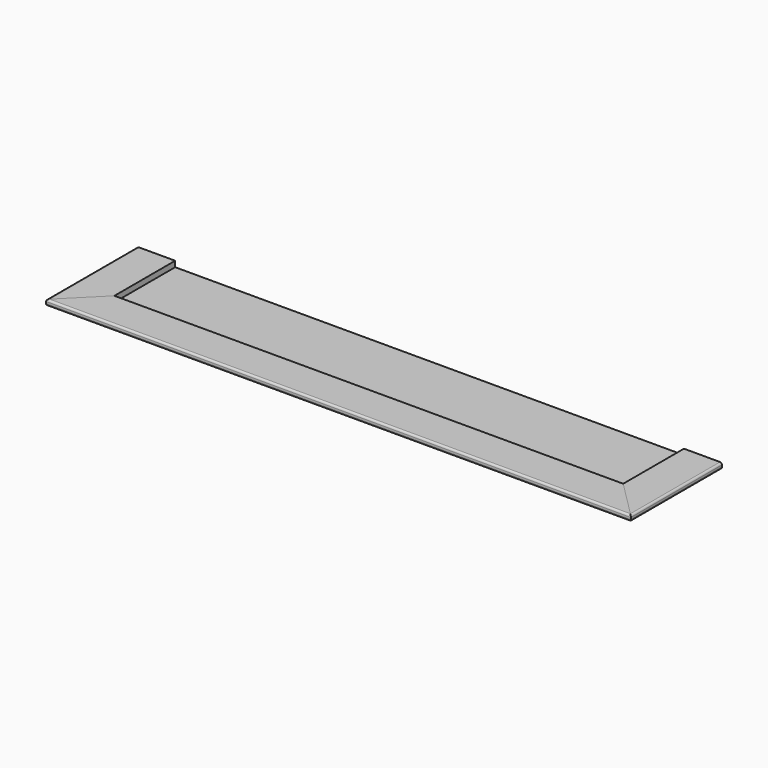
from build123d import *

# Parameters (mm, degrees)
F0_W      = 1828.8
F0_H      = 298.45
F1_DEPTH  = 19.05
F2_W      = 9.525
F2_H      = 9.525
F3_DEPTH  = 1828.801
F4_W      = 19.05
F4_H      = 9.525
F5_DEPTH  = 298.451
F7_DEPTH  = 19.05
F9_DEPTH  = 19.05
F11_DEPTH = 19.05
F12_R     = 6.35
F12_2_R   = 6.35
F12_3_R   = 6.35
F13_R     = 3.175


with BuildPart() as f1:
    # F0 (on Top) → F1 (new body)
    with BuildSketch(Plane.XY):
        Rectangle(F0_W, F0_H)
    extrude(amount=F1_DEPTH)

    # F2 (on face) → F3 (cut, through all)
    with BuildSketch(Plane.YZ.offset(914.4)):
        with Locations((144.4625, 4.7625)):
            Rectangle(F2_W, F2_H)
    extrude(amount=-F3_DEPTH, mode=Mode.SUBTRACT)

    # F4 (on face) → F5 (cut, through all)
    with BuildSketch(Plane.XZ.offset(149.225)):
        with Locations((-904.875, 4.7625)):
            Rectangle(F4_W, F4_H)
        with Locations((904.875, 4.7625)):
            Rectangle(F4_W, F4_H)
        with Locations((0, 4.7625)):
            Rectangle(F4_W, F4_H)
    extrude(amount=-F5_DEPTH, mode=Mode.SUBTRACT)

    # F13
    f13_edges = [f1.edges().sort_by_distance(p)[0] for p in [
        (-914.4, 0, 19.05),
        (914.4, 0, 19.05),
    ]]
    fillet(f13_edges, radius=F13_R)


with BuildPart() as f7:
    # F6 (on face) → F7 (new body)
    with BuildSketch(Plane.XY.offset(19.05)):
        Polygon((850.9, -104.775), (-850.9, -104.775), (-977.9, -231.775), (977.9, -231.775), align=None)
    extrude(amount=F7_DEPTH)

    # F12
    f12_edges = [f7.edges().sort_by_distance(p)[0] for p in [
        (0, -231.775, 38.1),
        (0, -231.775, 19.05),
    ]]
    fillet(f12_edges, radius=F12_R)


with BuildPart() as f9:
    # F8 (on face) → F9 (new body)
    with BuildSketch(Plane.XY.offset(19.05)):
        Polygon((-850.9, 149.225), (-977.9, 149.225), (-977.9, -231.775), (-850.9, -104.775), align=None)
    extrude(amount=F9_DEPTH)

    # F12#3
    f12_3_edges = [f9.edges().sort_by_distance(p)[0] for p in [
        (-977.9, -41.275, 38.1),
        (-977.9, -41.275, 19.05),
    ]]
    fillet(f12_3_edges, radius=F12_3_R)


with BuildPart() as f11:
    # F10 (on face) → F11 (new body)
    with BuildSketch(Plane.XY.offset(19.05)):
        Polygon((977.9, 149.225), (850.9, 149.225), (850.9, -104.775), (977.9, -231.775), align=None)
    extrude(amount=F11_DEPTH)

    # F12#2
    f12_2_edges = [f11.edges().sort_by_distance(p)[0] for p in [
        (977.9, -41.275, 19.05),
        (977.9, -41.275, 38.1),
    ]]
    fillet(f12_2_edges, radius=F12_2_R)


solid = Compound([f1.part, f7.part, f9.part, f11.part])
